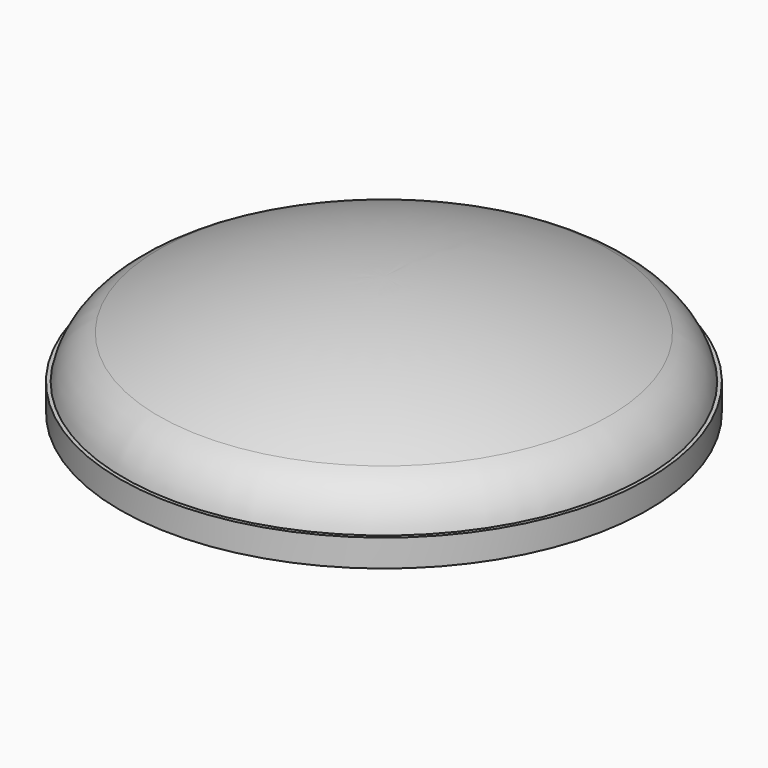
from build123d import *


with BuildPart() as f1:
    # F0 (on Right) → F1 (revolve)
    with BuildSketch(Plane.YZ):
        with BuildLine():
            ThreePointArc((0, 9), (20.988092, 6.72353), (41, 0))
            ThreePointArc((41, 0), (45.010989, -3.241758), (47, -8))
            Line((47, -8), (47.5, -8))
            Line((47.5, -8), (47.5, -12))
            Line((47.5, -12), (48.5, -12))
            Line((48.5, -12), (48.5, -7))
            Line((48.5, -7), (47.828647, -7))
            ThreePointArc((47.828647, -7), (45.544324, -2.299803), (41.418842, 0.908059))
            ThreePointArc((41.418842, 0.908059), (21.202499, 7.700274), (0, 10))
            Line((0, 10), (0, 9))
        make_face()
    revolve(axis=Axis((0, 0, 4.5), (0, 0, 1)))


solid = f1.part
